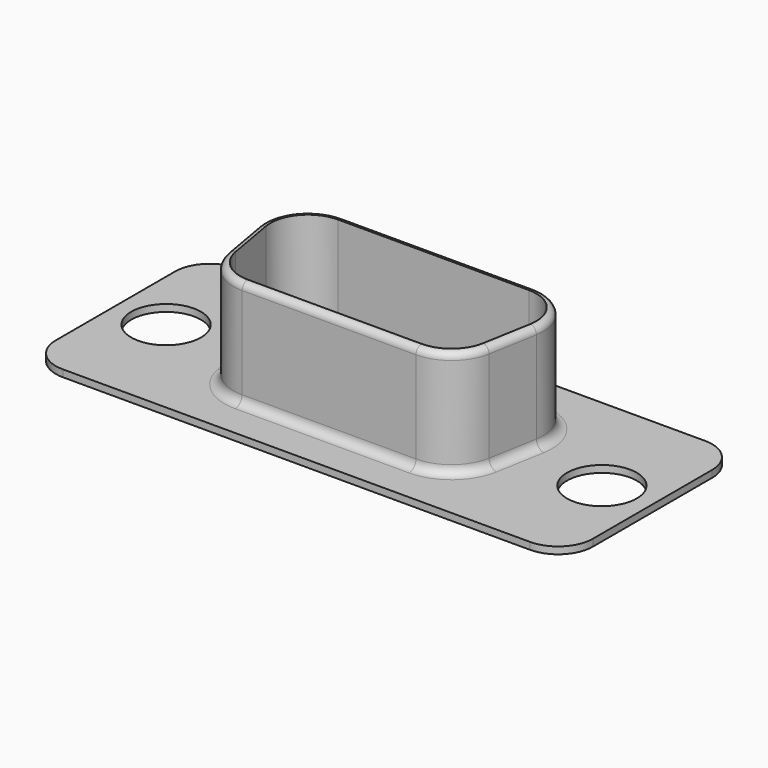
from build123d import *

# Parameters (mm, degrees)
PAD_DEPTH       = 0.4
SKETCH001_R     = 2
POCKET_DEPTH    = 5
PAD001_DEPTH    = 6.15
POCKET001_DEPTH = 6.551
FILLET_R        = 0.5
FILLET001_R     = 0.39
FILLET002_R     = 0.9


with BuildPart() as part:
    # Sketch → Pad (new body)
    with BuildSketch(Plane.XY):
        with BuildLine():
            Line((-13.4, 6.275), (13.4, 6.275))
            ThreePointArc((15.4, 4.275), (14.814214, 5.689214), (13.4, 6.275))
            Line((15.4, 4.275), (15.4, -4.275))
            ThreePointArc((13.4, -6.275), (14.814214, -5.689214), (15.4, -4.275))
            Line((13.4, -6.275), (-13.4, -6.275))
            ThreePointArc((-15.4, -4.275), (-14.814214, -5.689214), (-13.4, -6.275))
            Line((-15.4, -4.275), (-15.4, 4.275))
            ThreePointArc((-13.4, 6.275), (-14.814214, 5.689214), (-15.4, 4.275))
        make_face()
    extrude(amount=PAD_DEPTH)

    # Sketch001 (on Face10 of Pad) → Pocket (cut)
    with BuildSketch(Plane.XY.offset(0.4)):
        with Locations((-12.495, 0)):
            Circle(SKETCH001_R)
        with Locations((12.495, 0)):
            Circle(SKETCH001_R)
    extrude(amount=-POCKET_DEPTH, mode=Mode.SUBTRACT)

    # Sketch002 (on Face5 of Pocket) → Pad001 (join)
    with BuildSketch(Plane.XY.offset(0.4)):
        with BuildLine():
            Line((-5.475, 3.935), (5.475, 3.935))
            ThreePointArc((7.981365, 0.948231), (7.424529, 3.025959), (5.475, 3.935))
            Line((7.981365, 0.948231), (7.491365, -1.831769))
            ThreePointArc((4.985, -3.935), (6.620959, -3.339529), (7.491365, -1.831769))
            Line((4.985, -3.935), (-4.985, -3.935))
            ThreePointArc((-7.491365, -1.831769), (-6.620959, -3.339529), (-4.985, -3.935))
            Line((-7.491365, -1.831769), (-7.981365, 0.948231))
            ThreePointArc((-5.475, 3.935), (-7.424529, 3.025959), (-7.981365, 0.948231))
        make_face()
    extrude(amount=PAD001_DEPTH)

    # Sketch003 (on Face21 of Pad001) → Pocket001 (cut, through all)
    with BuildSketch(Plane.XY.offset(6.55)):
        with BuildLine():
            Line((-5.475, 3.535), (5.475, 3.535))
            ThreePointArc((7.587437, 1.017664), (7.11812, 2.768834), (5.475, 3.535))
            Line((7.587437, 1.017664), (7.097437, -1.762336))
            ThreePointArc((4.985, -3.535), (6.363834, -3.03312), (7.097437, -1.762336))
            Line((4.985, -3.535), (-4.985, -3.535))
            ThreePointArc((-7.097437, -1.762336), (-6.363834, -3.03312), (-4.985, -3.535))
            Line((-7.097437, -1.762336), (-7.587437, 1.017664))
            ThreePointArc((-5.475, 3.535), (-7.11812, 2.768834), (-7.587437, 1.017664))
        make_face()
    extrude(amount=-POCKET001_DEPTH, mode=Mode.SUBTRACT)

    # Fillet
    fillet_edges = [part.edges().sort_by_distance(p)[0] for p in [
        (0, -3.935, 0.4),
    ]]
    fillet(fillet_edges, radius=FILLET_R)

    # Fillet001
    fillet001_edges = [part.edges().sort_by_distance(p)[0] for p in [
        (-6.620959, -3.339529, 6.55),
    ]]
    fillet(fillet001_edges, radius=FILLET001_R)

    # Fillet002
    fillet002_edges = [part.edges().sort_by_distance(p)[0] for p in [
        (0, 3.535, 0),
    ]]
    fillet(fillet002_edges, radius=FILLET002_R)


solid = part.part
